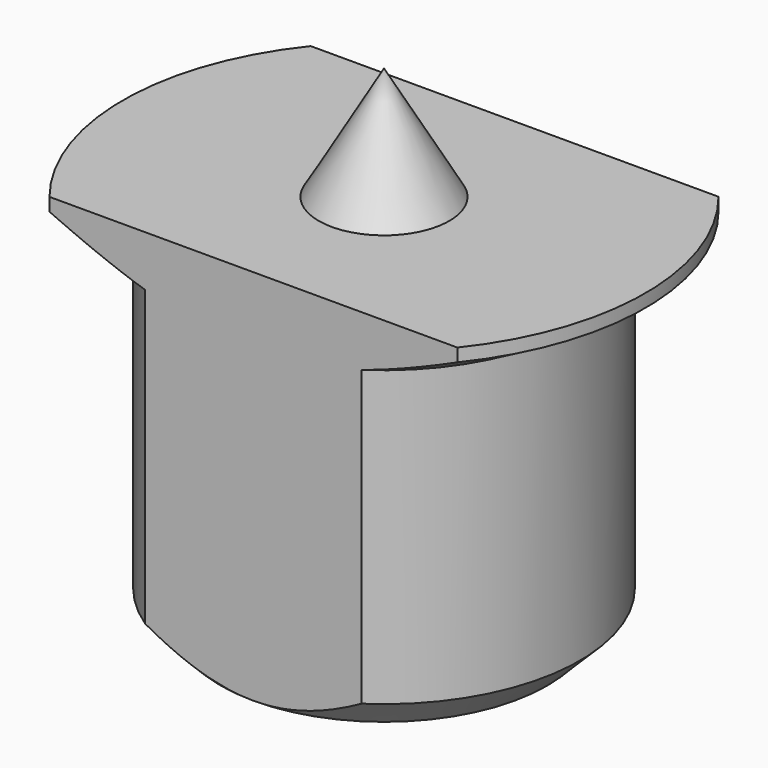
from build123d import *

# Parameters (mm, degrees)
F3_START = -25
F2_W     = 20.7691667601
F2_H     = 10
F3_DEPTH = 50


with BuildPart() as f1:
    # F0 (on Front) → F1 (revolve)
    with BuildSketch(Plane.XZ):
        Polygon((-5, -10), (0, -10), (0, 5.0188021535), (-2, 1.5547005384), (-8, 1.5547005384), (-8, 1.1547005384), (-6, 0), (-6, -9), align=None)
    revolve(axis=Axis((0, 0, -2.4905989232), (0, 0, -1)))

    # F2 (on Top) → F3 (intersect)
    with BuildSketch(Plane.XY.offset(F3_START)):
        with Locations((0.6040916778, 0)):
            Rectangle(F2_W, F2_H)
    extrude(amount=F3_DEPTH, mode=Mode.INTERSECT)


solid = f1.part
